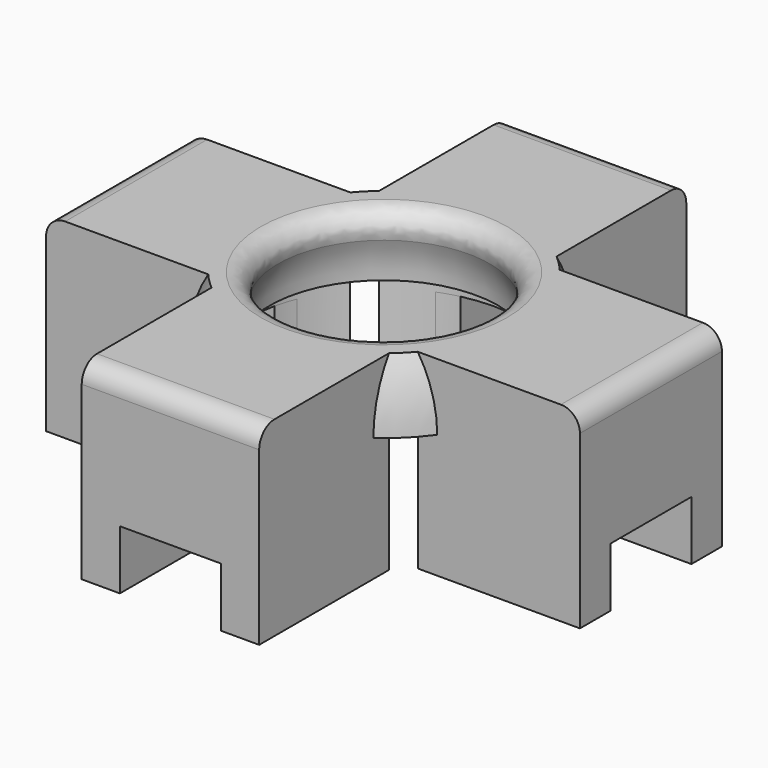
from build123d import *

# Parameters (mm, degrees)
PAD001_DEPTH    = 6.5
POCKET003_DEPTH = 5.5
PAD002_DEPTH    = 3.5
FILLET007_R     = 1
PAD009_DEPTH    = 2.4
FILLET_R        = 1
FILLET009_R     = 1
SKETCH025_W     = 5.3
SKETCH025_H     = 2
SKETCH025_W_2   = 2
SKETCH025_H_2   = 5.3
POCKET005_DEPTH = 3.1


with BuildPart() as part:
    # Sketch003 → Revolution001 (revolve)
    with BuildSketch(Plane.XZ):
        with BuildLine():
            Line((6, 3), (8, 3))
            ThreePointArc((8, 3), (7.795832, 4.795832), (7.193747, 6.5))
            Line((7.193747, 6.5), (4.570714, 6.5))
            ThreePointArc((6, 3), (5.628908, 4.890295), (4.570714, 6.5))
        make_face()
    revolve(axis=Axis((0, 0, 0), (0, 0, 1)))

    # Sketch004 (on Face1 of Revolution001) → Pad001 (new body)
    with BuildSketch(Plane(origin=(0, 0, 3), x_dir=(1, 0, 0), z_dir=(0, 0, -1))):
        with BuildLine():
            Line((4.65, -5.488852), (4.65, -13.988852))
            Line((4.65, -13.988852), (-4.65, -13.988852))
            Line((-4.65, -13.988852), (-4.65, -5.488852))
            ThreePointArc((-4.65, -5.488852), (0, -7.193747), (4.65, -5.488852))
        make_face()
        with BuildLine():
            Line((-5.488852, -4.65), (-13.988852, -4.65))
            Line((-13.988852, -4.65), (-13.988852, 4.65))
            Line((-13.988852, 4.65), (-5.488852, 4.65))
            ThreePointArc((-5.488852, 4.65), (-7.193747, 0), (-5.488852, -4.65))
        make_face()
        with BuildLine():
            Line((13.988852, -4.65), (13.988852, 4.65))
            Line((5.488852, 4.65), (13.988852, 4.65))
            ThreePointArc((5.488852, -4.65), (7.193747, 0), (5.488852, 4.65))
            Line((5.488852, -4.65), (13.988852, -4.65))
        make_face()
        with BuildLine():
            Line((-4.65, 5.488852), (-4.65, 13.988852))
            Line((-4.65, 13.988852), (4.65, 13.988852))
            Line((4.65, 13.988852), (4.65, 5.488852))
            ThreePointArc((4.65, 5.488852), (0, 7.193747), (-4.65, 5.488852))
        make_face()
    extrude(amount=PAD001_DEPTH)

    # Sketch018 (on Face24 of Pad001) → Pocket003 (cut)
    with BuildSketch(Plane(origin=(0, 0, -3.5), x_dir=(1, 0, 0), z_dir=(0, 0, -1))):
        with BuildLine():
            Line((-6.687862, 2.65), (-11.988852, 2.65))
            Line((-11.988852, 2.65), (-11.988852, -2.65))
            Line((-11.988852, -2.65), (-6.687862, -2.65))
            ThreePointArc((-6.687862, 2.65), (-7.193747, 0), (-6.687862, -2.65))
        make_face()
        with BuildLine():
            Line((-2.65, 6.687862), (-2.65, 11.988852))
            Line((-2.65, 11.988852), (2.65, 11.988852))
            Line((2.65, 11.988852), (2.65, 6.687862))
            ThreePointArc((2.65, 6.687862), (0, 7.193747), (-2.65, 6.687862))
        make_face()
        with BuildLine():
            Line((6.687862, 2.65), (11.988852, 2.65))
            Line((11.988852, 2.65), (11.988852, -2.65))
            Line((11.988852, -2.65), (6.687862, -2.65))
            ThreePointArc((6.687862, -2.65), (7.193747, 0), (6.687862, 2.65))
        make_face()
        with BuildLine():
            Line((2.65, -6.687862), (2.65, -11.988852))
            Line((2.65, -11.988852), (-2.65, -11.988852))
            Line((-2.65, -11.988852), (-2.65, -6.687862))
            ThreePointArc((-2.65, -6.687862), (0, -7.193747), (2.65, -6.687862))
        make_face()
    extrude(amount=-POCKET003_DEPTH, mode=Mode.SUBTRACT)

    # Sketch006 (on Face19 of Pocket003) → Pad002 (join)
    with BuildSketch(Plane(origin=(0, 0, 3), x_dir=(-1, 0, 0), z_dir=(0, 0, 1))):
        with BuildLine():
            Line((-13.988852, 4.65), (-5.488852, 4.65))
            ThreePointArc((-5.488852, 4.65), (-7.193747, 0), (-5.488852, -4.65))
            Line((-13.988852, -4.65), (-5.488852, -4.65))
            Line((-13.988852, -4.65), (-13.988852, 4.65))
        make_face()
        with BuildLine():
            Line((-4.65, 13.988852), (-4.65, 5.488852))
            ThreePointArc((4.65, 5.488852), (0, 7.193747), (-4.65, 5.488852))
            Line((4.65, 13.988852), (4.65, 5.488852))
            Line((-4.65, 13.988852), (4.65, 13.988852))
        make_face()
        with BuildLine():
            Line((5.488852, 4.65), (13.988852, 4.65))
            Line((13.988852, 4.65), (13.988852, -4.65))
            Line((13.988852, -4.65), (5.488852, -4.65))
            ThreePointArc((5.488852, -4.65), (7.193747, 0), (5.488852, 4.65))
        make_face()
        with BuildLine():
            Line((4.65, -5.488852), (4.65, -13.988852))
            Line((4.65, -13.988852), (-4.65, -13.988852))
            Line((-4.65, -13.988852), (-4.65, -5.488852))
            ThreePointArc((-4.65, -5.488852), (0, -7.193747), (4.65, -5.488852))
        make_face()
    extrude(amount=PAD002_DEPTH)

    # Fillet007
    fillet007_edges = [part.edges().sort_by_distance(p)[0] for p in [
        (-4.570714, 0, 6.5),
    ]]
    fillet(fillet007_edges, radius=FILLET007_R)

    # Sketch019 (on Face32 of Pad002) → Pad009 (join)
    with BuildSketch(Plane(origin=(0, 0, 2), x_dir=(1, 0, 0), z_dir=(0, 0, -1))):
        with BuildLine():
            Line((-11.988852, 2.65), (-6.687862, 2.65))
            ThreePointArc((-6.687862, 2.65), (-6.870797, 2.131231), (-7.013558, 1.6))
            Line((-7.013558, 1.6), (-10.555, 1.6))
            Line((-10.555, 1.6), (-10.555, -1.6))
            Line((-10.555, -1.6), (-7.013558, -1.6))
            ThreePointArc((-7.013558, -1.6), (-6.870797, -2.131231), (-6.687862, -2.65))
            Line((-11.988852, -2.65), (-6.687862, -2.65))
            Line((-11.988852, 2.65), (-11.988852, -2.65))
        make_face()
        with BuildLine():
            Line((-2.65, 6.687862), (-2.65, 11.988852))
            Line((-2.65, 11.988852), (2.65, 11.988852))
            Line((2.65, 11.988852), (2.65, 6.687862))
            ThreePointArc((2.65, 6.687862), (2.131231, 6.870797), (1.6, 7.013558))
            Line((1.6, 10.555), (1.6, 7.013558))
            Line((-1.6, 10.555), (1.6, 10.555))
            Line((-1.6, 7.013558), (-1.6, 10.555))
            ThreePointArc((-1.6, 7.013558), (-2.131231, 6.870797), (-2.65, 6.687862))
        make_face()
        with BuildLine():
            Line((6.687862, 2.65), (11.988852, 2.65))
            Line((11.988852, 2.65), (11.988852, -2.65))
            Line((11.988852, -2.65), (6.687862, -2.65))
            ThreePointArc((6.687862, -2.65), (6.870797, -2.131231), (7.013558, -1.6))
            Line((10.555, -1.6), (7.013558, -1.6))
            Line((10.555, 1.6), (10.555, -1.6))
            Line((7.013558, 1.6), (10.555, 1.6))
            ThreePointArc((7.013558, 1.6), (6.870797, 2.131231), (6.687862, 2.65))
        make_face()
        with BuildLine():
            Line((2.65, -11.988852), (-2.65, -11.988852))
            Line((-2.65, -11.988852), (-2.65, -6.687862))
            ThreePointArc((-2.65, -6.687862), (-2.131231, -6.870797), (-1.6, -7.013558))
            Line((-1.6, -7.013558), (-1.6, -10.555))
            Line((-1.6, -10.555), (1.6, -10.555))
            Line((1.6, -10.555), (1.6, -7.013558))
            ThreePointArc((1.6, -7.013558), (2.131231, -6.870797), (2.65, -6.687862))
            Line((2.65, -6.687862), (2.65, -11.988852))
        make_face()
    extrude(amount=PAD009_DEPTH)

    # Fillet
    fillet_edges = [part.edges().sort_by_distance(p)[0] for p in [
        (10.555, 0, 2),
        (0, -10.555, 2),
        (-10.555, 0, 2),
        (0, 10.555, 2),
    ]]
    fillet(fillet_edges, radius=FILLET_R)

    # Fillet009
    fillet009_edges = [part.edges().sort_by_distance(p)[0] for p in [
        (13.988852, 0, 6.5),
        (0, 13.988852, 6.5),
        (-13.988852, 0, 6.5),
        (0, -13.988852, 6.5),
    ]]
    fillet(fillet009_edges, radius=FILLET009_R)

    # Sketch025 (on Face48 of Fillet009) → Pocket005 (cut)
    with BuildSketch(Plane(origin=(0, 0, -3.5), x_dir=(1, 0, 0), z_dir=(0, 0, -1))):
        with Locations((0, -12.988852)):
            Rectangle(SKETCH025_W, SKETCH025_H)
        with Locations((12.988852, 0)):
            Rectangle(SKETCH025_W_2, SKETCH025_H_2)
        with Locations((0, 12.988852)):
            Rectangle(SKETCH025_W, SKETCH025_H)
        with Locations((-12.988852, 0)):
            Rectangle(SKETCH025_W_2, SKETCH025_H_2)
    extrude(amount=-POCKET005_DEPTH, mode=Mode.SUBTRACT)


solid = part.part
